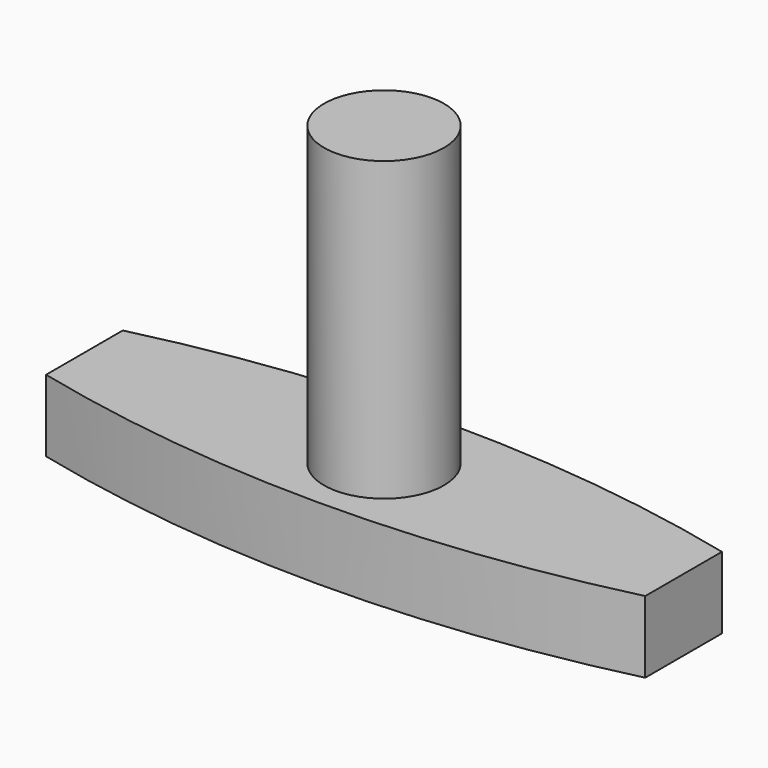
from build123d import *

# Parameters (mm, degrees)
F1_DEPTH = 3
F2_R     = 2.5
F3_DEPTH = 12.4


with BuildPart() as f1:
    # F0 (on Top) → F1 (new body)
    with BuildSketch(Plane.XY):
        with BuildLine():
            Line((12.5, -2), (12.5, 2))
            ThreePointArc((12.5, 2), (0, 3.5), (-12.5, 2))
            Line((-12.5, 2), (-12.5, -2))
            ThreePointArc((-12.5, -2), (0, -3.5), (12.5, -2))
        make_face()
    extrude(amount=F1_DEPTH)

    # F2 (on face) → F3 (join)
    with BuildSketch(Plane.XY.offset(3)):
        Circle(F2_R)
    extrude(amount=F3_DEPTH)


solid = f1.part
